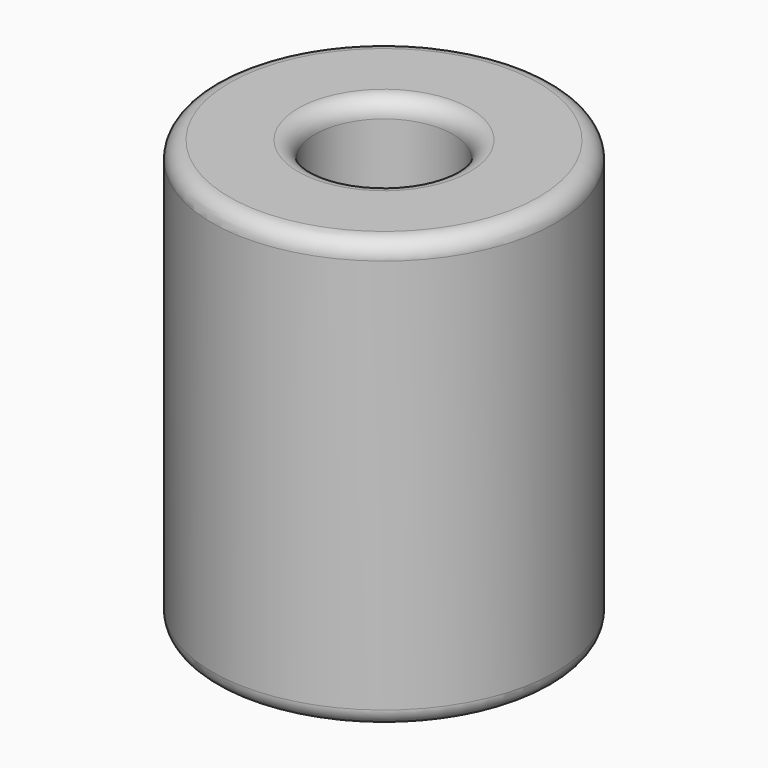
from build123d import *

# Parameters (mm, degrees)
F0_R     = 10
F0_R_2   = 4
F1_DEPTH = 25
F2_R     = 1


with BuildPart() as f1:
    # F0 (on Top) → F1 (new body)
    with BuildSketch(Plane.XY):
        Circle(F0_R)
        Circle(F0_R_2, mode=Mode.SUBTRACT)
    extrude(amount=F1_DEPTH)

    # F2
    f2_edges = [f1.edges().sort_by_distance(p)[0] for p in [
        (10, 0, 12.5),
        (-10, 0, 0),
        (-10, 0, 25),
        (4, 0, 12.5),
        (-4, 0, 0),
        (-4, 0, 25),
    ]]
    fillet(f2_edges, radius=F2_R)


solid = f1.part
